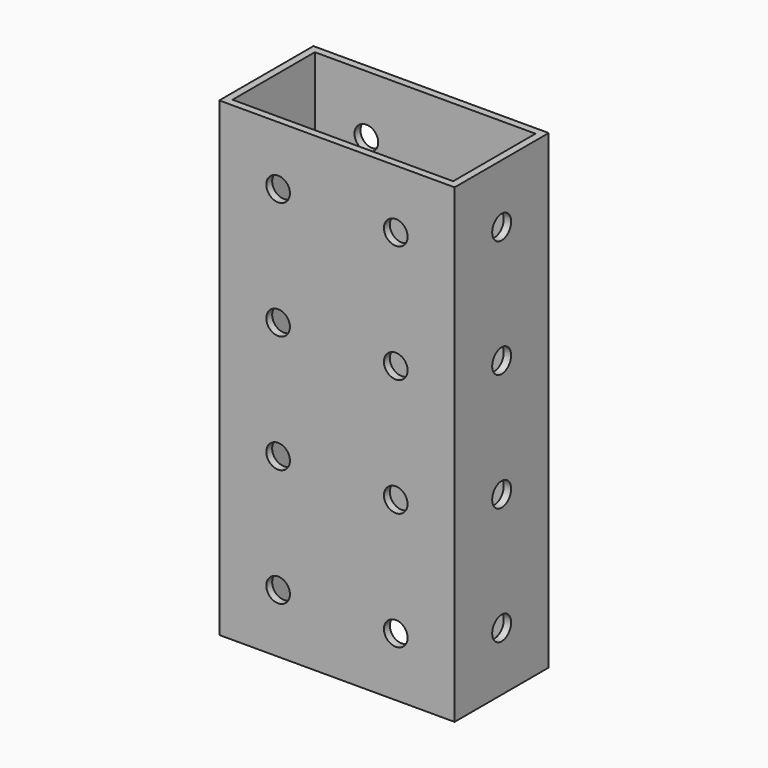
from build123d import *

# Parameters (mm, degrees)
F0_W     = 50.8
F0_H     = 25.4
F0_W_2   = 47.625
F0_H_2   = 22.225
F1_DEPTH = 101.6
F2_R     = 2.5527
F3_DEPTH = 25.4
F4_R     = 2.5527
F5_DEPTH = 50.801
F6_R     = 4.7625
F7_DEPTH = 3.175


with BuildPart() as f1:
    # F0 (on Top) → F1 (new body)
    with BuildSketch(Plane.XY):
        Rectangle(F0_W, F0_H)
        Rectangle(F0_W_2, F0_H_2, mode=Mode.SUBTRACT)
    extrude(amount=F1_DEPTH)

    # F2 (on face) → F3 (cut)
    with BuildSketch(Plane.XZ.offset(12.7)):
        with Locations((-12.7, 12.7)):
            Circle(F2_R)
        with Locations((-12.7, 38.1)):
            Circle(F2_R)
        with Locations((-12.7, 63.5)):
            Circle(F2_R)
        with Locations((-12.7, 88.9)):
            Circle(F2_R)
        with Locations((12.7, 12.7)):
            Circle(F2_R)
        with Locations((12.7, 38.1)):
            Circle(F2_R)
        with Locations((12.7, 63.5)):
            Circle(F2_R)
        with Locations((12.7, 88.9)):
            Circle(F2_R)
    extrude(amount=-F3_DEPTH, mode=Mode.SUBTRACT)

    # F4 (on face) → F5 (cut, through all)
    with BuildSketch(Plane(origin=(-25.4, 0, 0), x_dir=(0, -1, 0), z_dir=(-1, 0, 0))):
        with Locations((0, 88.9)):
            Circle(F4_R)
        with Locations((0, 63.5)):
            Circle(F4_R)
        with Locations((0, 38.1)):
            Circle(F4_R)
        with Locations((0, 12.7)):
            Circle(F4_R)
    extrude(amount=-F5_DEPTH, mode=Mode.SUBTRACT)

    # F6 (on face) → F7 (cut)
    with BuildSketch(Plane(origin=(-25.4, 0, 0), x_dir=(0, -1, 0), z_dir=(-1, 0, 0))):
        with Locations((0, 12.7)):
            Circle(F6_R)
        with Locations((0, 38.1)):
            Circle(F6_R)
    extrude(amount=-F7_DEPTH, mode=Mode.SUBTRACT)


solid = f1.part
